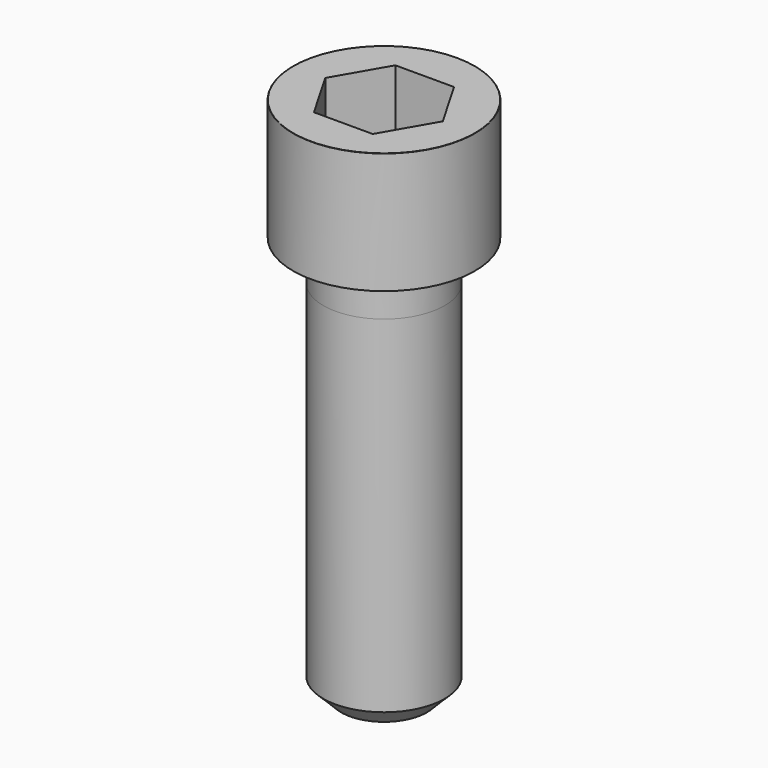
from build123d import *

# Parameters (mm, degrees)
POCKET_DEPTH = 10.07


with BuildPart() as part:
    # Sketch → Revolve (revolve)
    with BuildSketch(Plane.YZ):
        with BuildLine():
            Line((5.999, 0), (9, 0))
            Line((9, 0), (9, 11.97229))
            ThreePointArc((9, 11.97229), (8.991884, 11.991884), (8.97229, 12))
            Line((8.97229, 12), (0, 12))
            Line((0, -40), (0, 12))
            Line((4.25, -40), (0, -40))
            Line((6, -38.25), (4.25, -40))
            Line((6, -4), (6, -38.25))
            Line((5.999, 0), (6, -4))
        make_face()
    revolve(axis=Axis((0, 0, 0), (0, 0, 1)))

    # Sketch001 → Pocket (cut)
    with BuildSketch(Plane.XY.offset(12)):
        Polygon((5.813917, 0), (2.906959, 5.035), (-2.906959, 5.035), (-5.813917, 0), (-2.906959, -5.035), (2.906959, -5.035), align=None)
    extrude(amount=-POCKET_DEPTH, mode=Mode.SUBTRACT)


solid = part.part
